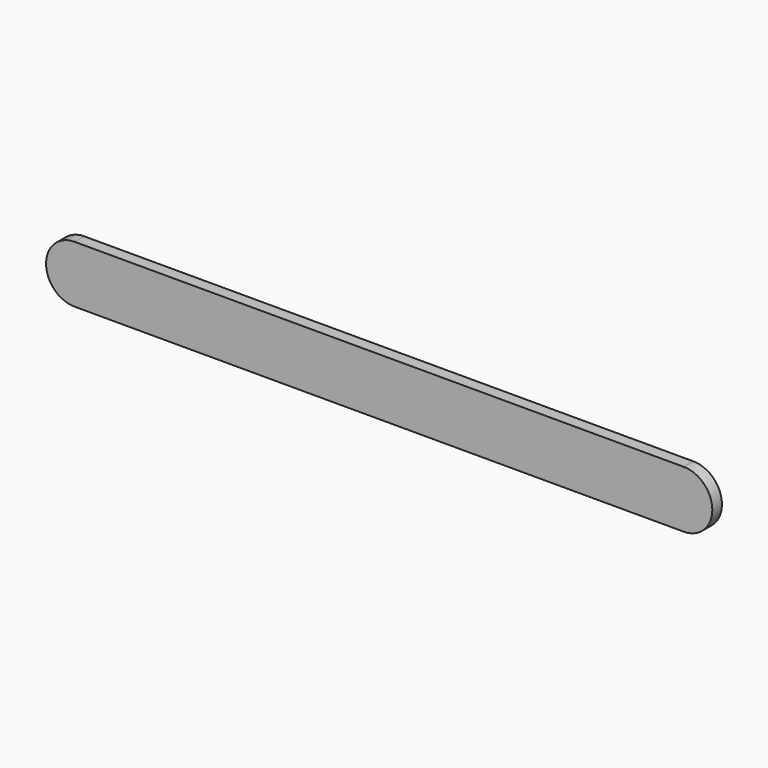
from build123d import *

# Parameters (mm, degrees)
F0_W     = 101.6
F0_H     = 9.525
F1_DEPTH = 2


with BuildPart() as f1:
    # F0 (on Front) → F1 (new body)
    with BuildSketch(Plane.XZ):
        with Locations((5.52281, 27.365152)):
            Rectangle(F0_W, F0_H)
        with BuildLine():
            Line((-45.27719, 22.602652), (-45.27719, 32.127652))
            ThreePointArc((-45.27719, 32.127652), (-50.03969, 27.365152), (-45.27719, 22.602652))
        make_face()
        with BuildLine():
            ThreePointArc((56.32281, 22.602652), (61.08531, 27.365152), (56.32281, 32.127652))
            Line((56.32281, 32.127652), (56.32281, 22.602652))
        make_face()
    extrude(amount=F1_DEPTH)


solid = f1.part
